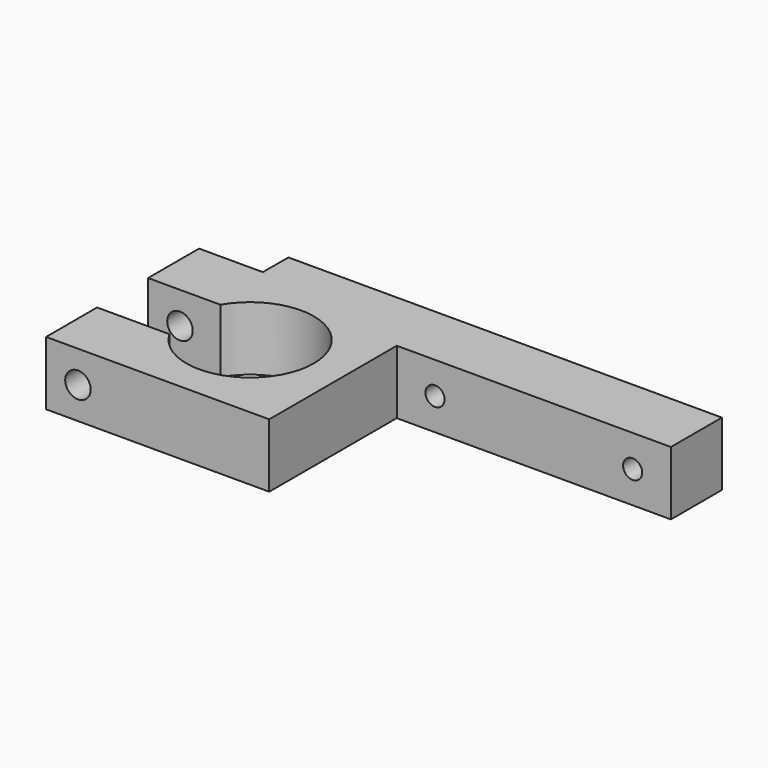
from build123d import *

# Parameters (mm, degrees)
CYLINDER_R             = 10
CYLINDER_DEPTH         = 10
CYLINDER001_R          = 2
CYLINDER001_DEPTH      = 30
CYLINDER001_ROLL_ANGLE = -90
CYLINDER003_R          = 1.5
CYLINDER003_DEPTH      = 10
CYLINDER003_ROLL_ANGLE = -90
CYLINDER002_R          = 1.5
CYLINDER002_DEPTH      = 10
CYLINDER002_ROLL_ANGLE = -90
BOX001_W               = 15
BOX001_H               = 10
BOX001_DEPTH           = 10
BOX_W                  = 35
BOX_H                  = 30
BOX_DEPTH              = 10
BOX002_W               = 68
BOX002_H               = 10
BOX002_DEPTH           = 10


with BuildPart() as cylinder:
    # Cylinder → Cylinder (new body)
    with BuildSketch(Plane.XY.offset(-5)):
        Circle(CYLINDER_R)
    extrude(amount=CYLINDER_DEPTH)


with BuildPart() as cylinder001:
    # Cylinder001 → Cylinder001 (new body)
    with BuildSketch(Plane.XY):
        Circle(CYLINDER001_R)
    extrude(amount=CYLINDER001_DEPTH)


with BuildPart() as cylinder001_1:
    # Cylinder001 roll: moved
    add(cylinder001.part.rotate(Axis((0, 0, 0), (1, 0, 0)), CYLINDER001_ROLL_ANGLE))


with BuildPart() as cylinder001_2:
    # Cylinder001 placement: moved
    add(cylinder001_1.part.moved(Location((-15, -15, 0))))


with BuildPart() as cylinder003:
    # Cylinder003 → Cylinder003 (new body)
    with BuildSketch(Plane.XY):
        Circle(CYLINDER003_R)
    extrude(amount=CYLINDER003_DEPTH)


with BuildPart() as cylinder003_1:
    # Cylinder003 roll: moved
    add(cylinder003.part.rotate(Axis((0, 0, 0), (1, 0, 0)), CYLINDER003_ROLL_ANGLE))


with BuildPart() as cylinder003_2:
    # Cylinder003 placement: moved
    add(cylinder003_1.part.moved(Location((52, 10, 0))))


with BuildPart() as cylinder002:
    # Cylinder002 → Cylinder002 (new body)
    with BuildSketch(Plane.XY):
        Circle(CYLINDER002_R)
    extrude(amount=CYLINDER002_DEPTH)


with BuildPart() as cylinder002_1:
    # Cylinder002 roll: moved
    add(cylinder002.part.rotate(Axis((0, 0, 0), (1, 0, 0)), CYLINDER002_ROLL_ANGLE))


with BuildPart() as cylinder002_2:
    # Cylinder002 placement: moved
    add(cylinder002_1.part.moved(Location((21, 10, 0))))


with BuildPart() as negative_fusion:
    # Box001 → Box001 (new body)
    with BuildSketch(Plane(origin=(-20, -5, -5), x_dir=(1, 0, 0), z_dir=(0, 0, 1))):
        with Locations((7.5, 5)):
            Rectangle(BOX001_W, BOX001_H)
    extrude(amount=BOX001_DEPTH)

    # Fusion: union Cylinder, Cylinder001, Cylinder003, Cylinder002
    add(cylinder.part)
    add(cylinder001_2.part)
    add(cylinder003_2.part)
    add(cylinder002_2.part)


with BuildPart() as cube:
    # Box → Box (new body)
    with BuildSketch(Plane(origin=(-20, -15, -5), x_dir=(1, 0, 0), z_dir=(0, 0, 1))):
        with Locations((17.5, 15)):
            Rectangle(BOX_W, BOX_H)
    extrude(amount=BOX_DEPTH)


with BuildPart() as cut:
    # Box002 → Box002 (new body)
    with BuildSketch(Plane(origin=(-10, 10, -5), x_dir=(1, 0, 0), z_dir=(0, 0, 1))):
        with Locations((34, 5)):
            Rectangle(BOX002_W, BOX002_H)
    extrude(amount=BOX002_DEPTH)

    # Fusion001: union Cube
    add(cube.part)

    # Cut: cut Negative Fusion
    add(negative_fusion.part, mode=Mode.SUBTRACT)


solid = cut.part
